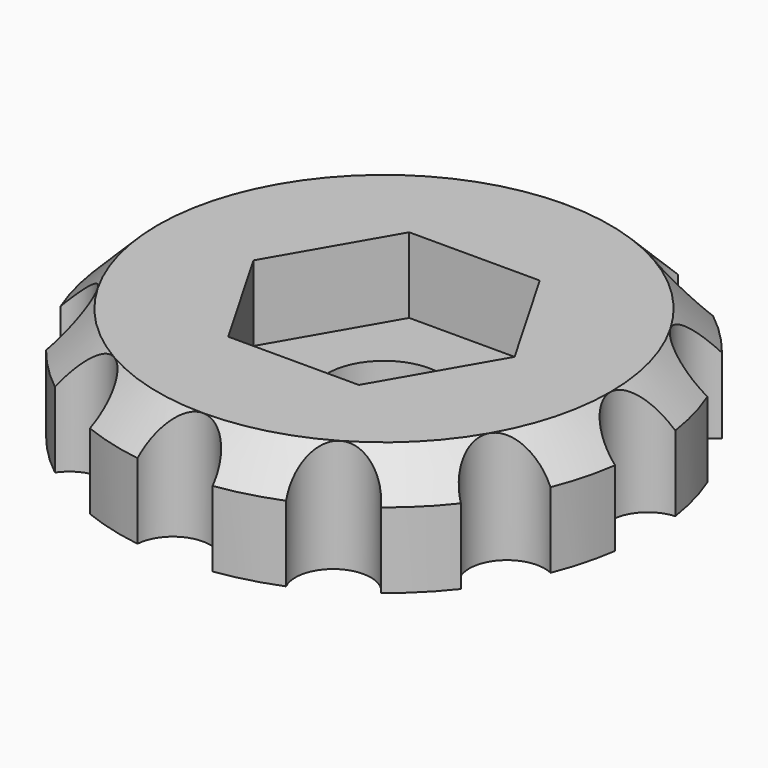
from build123d import *

# Parameters (mm, degrees)
CYLINDER028_R     = 1
CYLINDER028_DEPTH = 10
ARRAY001_COUNT    = 12
CYLINDER027_R     = 1.5
CYLINDER027_DEPTH = 10
CYLINDER026_R     = 7
CYLINDER026_DEPTH = 3
POCKET009_DEPTH   = 2
CHAMFER010_SIZE   = 1


with BuildPart() as array001:
    # Cylinder028 → Cylinder028 (new body)
    with BuildSketch(Plane(origin=(7, 0, -2), x_dir=(1, 0, 0), z_dir=(0, 0, 1))):
        Circle(CYLINDER028_R)
    extrude(amount=CYLINDER028_DEPTH)

    # Array001: Array001 ×12 about axis
    array001_axis = Axis((0, 0, 0), (0, 0, 1))


with BuildPart() as array001_1:
    add(array001.part)
    for i in range(1, ARRAY001_COUNT):
        add(array001.part.rotate(array001_axis, i * 360 / ARRAY001_COUNT))


with BuildPart() as cilindro019:
    # Cylinder027 → Cylinder027 (new body)
    with BuildSketch(Plane.XY.offset(-2)):
        Circle(CYLINDER027_R)
    extrude(amount=CYLINDER027_DEPTH)


with BuildPart() as cut015:
    # Cylinder026 → Cylinder026 (new body)
    with BuildSketch(Plane.XY):
        Circle(CYLINDER026_R)
    extrude(amount=CYLINDER026_DEPTH)

    # Sketch004 → Pocket009 (cut)
    with BuildSketch(Plane.XY.offset(3)):
        Polygon((-3.464093, 0), (-1.732049, 3), (1.732049, 3), (3.464093, 0), (1.732049, -3), (-1.732049, -3), align=None)
    extrude(amount=-POCKET009_DEPTH, mode=Mode.SUBTRACT)

    # Chamfer010
    chamfer010_edges = [cut015.edges().sort_by_distance(p)[0] for p in [
        (-7, 0, 3),
    ]]
    chamfer(chamfer010_edges, length=CHAMFER010_SIZE)

    # Cut014: cut Cilindro019
    add(cilindro019.part, mode=Mode.SUBTRACT)

    # Cut015: cut Array001
    add(array001_1.part, mode=Mode.SUBTRACT)


with BuildPart() as cut015_1:
    # Cut015 placement: moved
    add(cut015.part.moved(Location((58, -59, -10.3))))


solid = cut015_1.part
